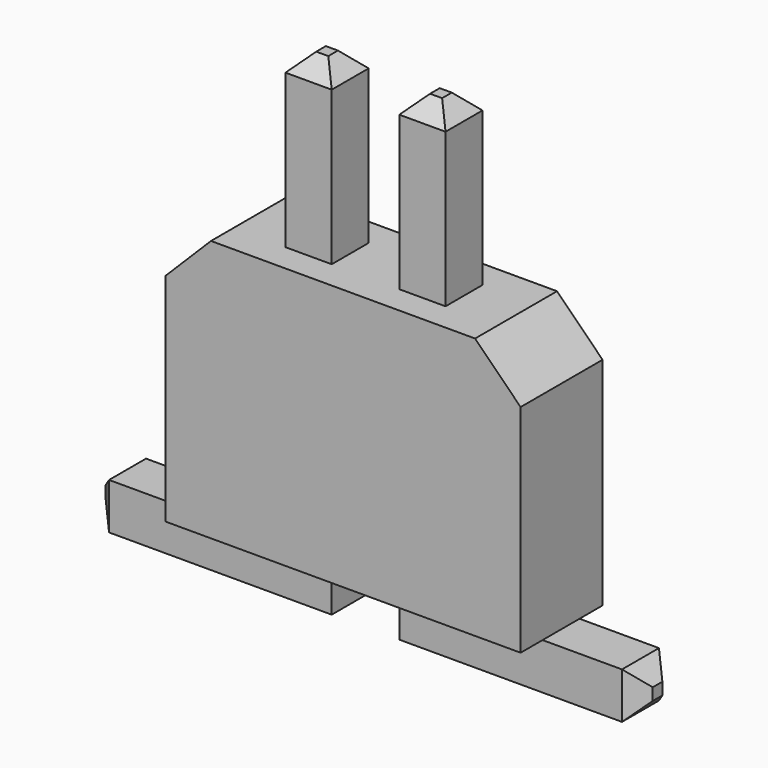
from build123d import *

# Parameters (mm, degrees)
F0_W          = 3.12
F0_H          = 0.9
F1_DEPTH      = 2.3
F2_W          = 0.406
F2_H          = 0.406
F3_DEPTH      = 1.5
F3_DEPTH_BACK = 2.71
F4_W          = 0.406
F4_H          = 0.406
F5_DEPTH      = 1.7
F6_W          = 0.406
F6_H          = 0.406
F7_DEPTH      = 1.7
F8_SIZE       = 0.4
F9_SIZE       = 0.15


with BuildPart() as f1:
    # F0 (on Top) → F1 (new body)
    with BuildSketch(Plane.XY):
        Rectangle(F0_W, F0_H)
    extrude(amount=F1_DEPTH)

    # F2 (on face) → F3 (join, two sides)
    with BuildSketch(Plane.XY.offset(2.3)) as f3_sk:
        with Locations((-0.5, 0)):
            Rectangle(F2_W, F2_H)
        with Locations((0.5, 0)):
            Rectangle(F2_W, F2_H)
    extrude(amount=F3_DEPTH)
    extrude(f3_sk.sketch, amount=-F3_DEPTH_BACK)

    # F4 (on face) → F5 (join)
    with BuildSketch(Plane.YZ.offset(0.703)):
        with Locations((0, -0.207)):
            Rectangle(F4_W, F4_H)
    extrude(amount=F5_DEPTH)

    # F6 (on face) → F7 (join)
    with BuildSketch(Plane(origin=(-0.703, 0, 0), x_dir=(0, -1, 0), z_dir=(-1, 0, 0))):
        with Locations((0, -0.207)):
            Rectangle(F6_W, F6_H)
    extrude(amount=F7_DEPTH)

    # F8
    f8_edges = [f1.edges().sort_by_distance(p)[0] for p in [
        (1.56, 0, 2.3),
        (-1.56, 0, 2.3),
    ]]
    chamfer(f8_edges, length=F8_SIZE)

    # F9
    f9_edges = [f1.edges().sort_by_distance(p)[0] for p in [
        (-0.5, 0.203, 3.8),
        (0.5, 0.203, 3.8),
        (0.703, 0, 3.8),
        (0.5, -0.203, 3.8),
        (0.297, 0, 3.8),
        (-0.297, 0, 3.8),
        (-0.5, -0.203, 3.8),
        (-0.703, 0, 3.8),
        (2.403, 0, -0.004),
        (2.403, -0.203, -0.207),
        (2.403, 0, -0.41),
        (2.403, 0.203, -0.207),
        (-2.403, 0, -0.004),
        (-2.403, -0.203, -0.207),
        (-2.403, 0, -0.41),
        (-2.403, 0.203, -0.207),
    ]]
    chamfer(f9_edges, length=F9_SIZE)


solid = f1.part
